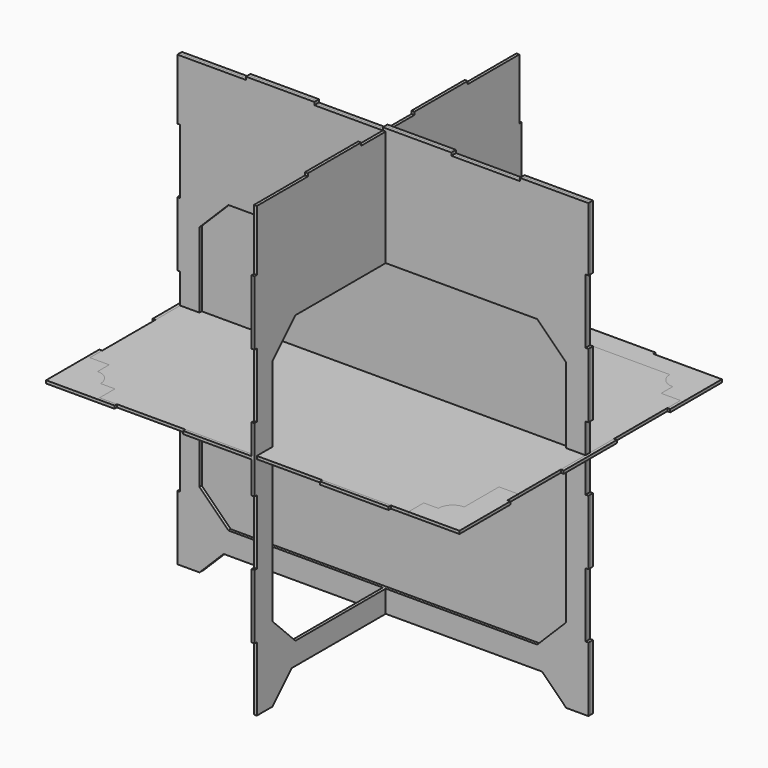
from build123d import *

# Parameters (mm, degrees)
F2_DEPTH  = 3
F4_DEPTH  = 3
F6_DEPTH  = 3
F8_DEPTH  = 3
F9_W      = 20
F9_H      = 210
F9_W_2    = 320
F9_H_2    = 20
F10_DEPTH = 3


with BuildPart() as f2:
    # F1 (on Top) → F2 (new body)
    with BuildSketch(Plane.XY):
        Polygon((71, -173), (142, -173), (142, -170), (213, -170), (213, -104), (210, -104), (210, -35), (213, -35), (213, 34), (210, 34), (210, 103), (213, 103), (213, 170), (142, 170), (142, 173), (71, 173), (71, 170), (0, 170), (0, 173), (-71, 173), (-71, 170), (-142, 170), (-142, 173), (-213, 173), (-213, 103), (-210, 103), (-210, 34), (-213, 34), (-213, -35), (-210, -35), (-210, -104), (-213, -104), (-213, -173), (-142, -173), (-142, -170), (-71, -170), (-71, -173), (0, -173), (0, -170), (71, -170), align=None)
        Polygon((-190, 120), (-160, 150), (160, 150), (190, 120), (190, -120), (160, -150), (-160, -150), (-190, -120), align=None, mode=Mode.SUBTRACT)
    extrude(amount=F2_DEPTH)


with BuildPart() as f4:
    # F3 (on Front) → F4 (new body)
    with BuildSketch(Plane.XZ):
        Polygon((190, -234), (213, -234), (213, -167), (210, -167), (210, -100), (213, -100), (213, -33), (210, -33), (210, 34), (213, 34), (213, 101), (210, 101), (210, 168), (213, 168), (213, 234), (142, 234), (142, 231), (71, 231), (71, 234), (0, 234), (0, 231), (-71, 231), (-71, 234), (-142, 234), (-142, 231), (-213, 231), (-213, 168), (-210, 168), (-210, 101), (-213, 101), (-213, 34), (-210, 34), (-210, -33), (-213, -33), (-213, -100), (-210, -100), (-210, -167), (-213, -167), (-213, -234), (-190, -234), (-165, -209), (165, -209), align=None)
        Polygon((-190, 81), (-160, 111), (160, 111), (190, 81), (190, -156), (160, -186), (-160, -186), (-190, -156), align=None, mode=Mode.SUBTRACT)
    extrude(amount=F4_DEPTH)


with BuildPart() as f6:
    # F3 (on Front) → F6 (new body)
    with BuildSketch(Plane.XZ):
        Polygon((190, -234), (213, -234), (213, -167), (210, -167), (210, -100), (213, -100), (213, -33), (210, -33), (210, 34), (213, 34), (213, 101), (210, 101), (210, 168), (213, 168), (213, 234), (142, 234), (142, 231), (71, 231), (71, 234), (0, 234), (0, 231), (-71, 231), (-71, 234), (-142, 234), (-142, 231), (-213, 231), (-213, 168), (-210, 168), (-210, 101), (-213, 101), (-213, 34), (-210, 34), (-210, -33), (-213, -33), (-213, -100), (-210, -100), (-210, -167), (-213, -167), (-213, -234), (-190, -234), (-165, -209), (165, -209), align=None)
        Polygon((-190, 81), (-160, 111), (160, 111), (190, 81), (190, -156), (160, -186), (-160, -186), (-190, -156), align=None, mode=Mode.SUBTRACT)
        Polygon((160, 111), (-160, 111), (-190, 81), (-190, -156), (-160, -186), (160, -186), (190, -156), (190, 81), align=None)
    extrude(amount=-F6_DEPTH)


with BuildPart() as f8:
    # F7 (on Right) → F8 (new body)
    with BuildSketch(Plane.YZ):
        Polygon((-35, 234), (-104, 234), (-104, 231), (-170, 231), (-170, 168), (-173, 168), (-173, 101), (-170, 101), (-170, 34), (-173, 34), (-173, -33), (-170, -33), (-170, -100), (-173, -100), (-173, -167), (-170, -167), (-170, -234), (-150, -234), (-125, -209), (125, -209), (150, -234), (170, -234), (170, -167), (173, -167), (173, -100), (170, -100), (170, -33), (173, -33), (173, 34), (170, 34), (170, 101), (173, 101), (173, 168), (170, 168), (170, 231), (103, 231), (103, 234), (34, 234), (34, 231), (-35, 231), align=None)
        Polygon((-120, 111), (120, 111), (150, 81), (150, -156), (120, -186), (-120, -186), (-150, -156), (-150, 81), align=None, mode=Mode.SUBTRACT)
    extrude(amount=F8_DEPTH)


with BuildPart() as f10:
    # F9 (on Top) → F10 (new body)
    with BuildSketch(Plane.XY):
        with BuildLine():
            Line((160, -150), (175, -150))
            ThreePointArc((175, -150), (179.3933982822, -139.3933982822), (190, -135))
            Line((190, -135), (190, -90))
            Line((190, -90), (190, 120))
            Line((190, 120), (190, 135))
            ThreePointArc((190, 135), (179.3933982822, 139.3933982822), (175, 150))
            Line((175, 150), (36.15, 150))
            Line((36.15, 150), (36.15, 147))
            Line((36.15, 147), (23.15, 147))
            Line((23.15, 147), (23.15, 107.7))
            Line((23.15, 107.7), (-23.15, 107.7))
            Line((-23.15, 107.7), (-23.15, 147))
            Line((-23.15, 147), (-36.15, 147))
            Line((-36.15, 147), (-36.15, 150))
            Line((-36.15, 150), (-175, 150))
            ThreePointArc((-175, 150), (-179.3933982822, 139.3933982822), (-190, 135))
            Line((-190, 135), (-190, 90))
            Line((-190, 90), (-190, -120))
            Line((-190, -120), (-190, -135))
            ThreePointArc((-190, -135), (-179.3933982822, -139.3933982822), (-175, -150))
            Line((-175, -150), (-160, -150))
            Line((-160, -150), (160, -150))
        make_face()
        with Locations((-200, -15)):
            Rectangle(F9_W, F9_H)
        with Locations((200, 15)):
            Rectangle(F9_W, F9_H)
        with Locations((0, -160)):
            Rectangle(F9_W_2, F9_H_2)
    extrude(amount=F10_DEPTH)


solid = Compound([f2.part, f4.part, f6.part, f8.part, f10.part])
